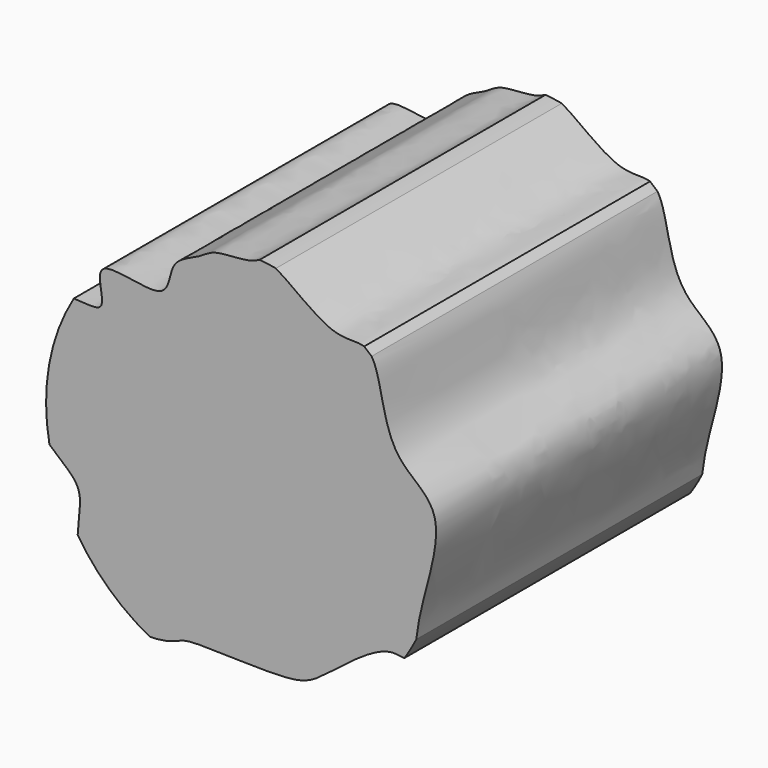
from build123d import *

# Parameters (mm, degrees)
F2_DEPTH = 101.6


with BuildPart() as f2:
    # F1 (on face) → F2 (new body)
    with BuildSketch(Plane.XZ):
        with BuildLine():
            add(Edge.make_bspline(
                [(-39.6614000201, 38.3851639926), (-37.2879646035, 40.8737299942), (-19.7610492656, 33.9079571403), (-21.1189129698, 47.5097254063), (-11.8738875372, 50.1908135701), (-8.0821563957, 54.0367272991), (1.6421180865, 53.5551130619), (4.4391928376, 55.1095290556), (5.0738438972, 55.386150113)],
                knots=[0, 0, 0, 0, 0.044309092, 0.0763153637, 0.1076021277, 0.1332651742, 0.1686134923, 0.1793790483, 0.1793790483, 0.1793790483, 0.1793790483], degree=3))
            add(Edge.make_bspline(
                [(-47.7369494432, 28.5403779597), (-44.2413368856, 28.5119500907), (-36.8255058469, 26.7053258396), (-41.4375640588, 36.522841804), (-39.6614000201, 38.3851639926)],
                knots=[0.9410361799, 0.9410361799, 0.9410361799, 0.9410361799, 0.966841223, 1, 1, 1, 1], degree=3))
            ThreePointArc((-47.7369494432, 28.5403779597), (-54.7533180414, 9.7695281199), (-54.6617347679, -10.2695797575))
            add(Edge.make_bspline(
                [(-46.6322880463, -30.3117011697), (-46.4977201865, -26.0116859782), (-44.0489035256, -17.5882792642), (-51.3882554041, -13.4092183276), (-54.6617347679, -10.2695797575)],
                knots=[0.7849972544, 0.7849972544, 0.7849972544, 0.7849972544, 0.8173318196, 0.8487044752, 0.8487044752, 0.8487044752, 0.8487044752], degree=3))
            ThreePointArc((-46.6322880463, -30.3117011697), (-37.5926900781, -40.9897446799), (-26.1743904797, -49.0741357463))
            add(Edge.make_bspline(
                [(46.2428410755, -30.9025753862), (45.1386200607, -30.7725092744), (39.3604541497, -29.425171045), (23.09528829, -43.26032036), (14.9627726312, -48.0991679429), (-15.176895938, -45.6663125695), (-18.2152297231, -47.8107164794), (-23.0605334743, -49.1345861635), (-26.1743904797, -49.0741357463)],
                knots=[0.5020495828, 0.5020495828, 0.5020495828, 0.5020495828, 0.5184751941, 0.5688926581, 0.606220477, 0.6638304074, 0.6864238731, 0.7126795525, 0.7126795525, 0.7126795525, 0.7126795525], degree=3))
            ThreePointArc((46.2428410755, -30.9025753862), (48.0279215865, -28.0479636392), (49.6370089326, -25.0905731393))
            add(Edge.make_bspline(
                [(36.9154506452, 41.6007093677), (38.5537217812, 39.0808451739), (40.2789165216, 28.726318552), (44.1151222229, 16.8097115057), (59.9637965771, 8.8428905877), (51.1231940336, -13.5841309809), (49.8479433202, -23.5142212408), (49.6370089326, -25.0905731393)],
                knots=[0.2844430899, 0.2844430899, 0.2844430899, 0.2844430899, 0.3172820626, 0.3576892047, 0.3981891747, 0.4553393578, 0.4681569316, 0.4681569316, 0.4681569316, 0.4681569316], degree=3))
            ThreePointArc((36.9154506452, 41.6007093677), (35.8696549233, 42.5057334005), (34.8016795231, 43.3844743958))
            add(Edge.make_bspline(
                [(9.7149920068, 54.7630207945), (14.0682056723, 52.3281945962), (25.4129129592, 42.0398406397), (32.6904674519, 44.1288408455), (34.8016795231, 43.3844743958)],
                knots=[0.2002520086, 0.2002520086, 0.2002520086, 0.2002520086, 0.2433485269, 0.272784456, 0.272784456, 0.272784456, 0.272784456], degree=3))
            ThreePointArc((9.7149920068, 54.7630207945), (7.4009789478, 55.1234526027), (5.0738438972, 55.386150113))
        make_face()
    extrude(amount=-F2_DEPTH)


solid = f2.part
